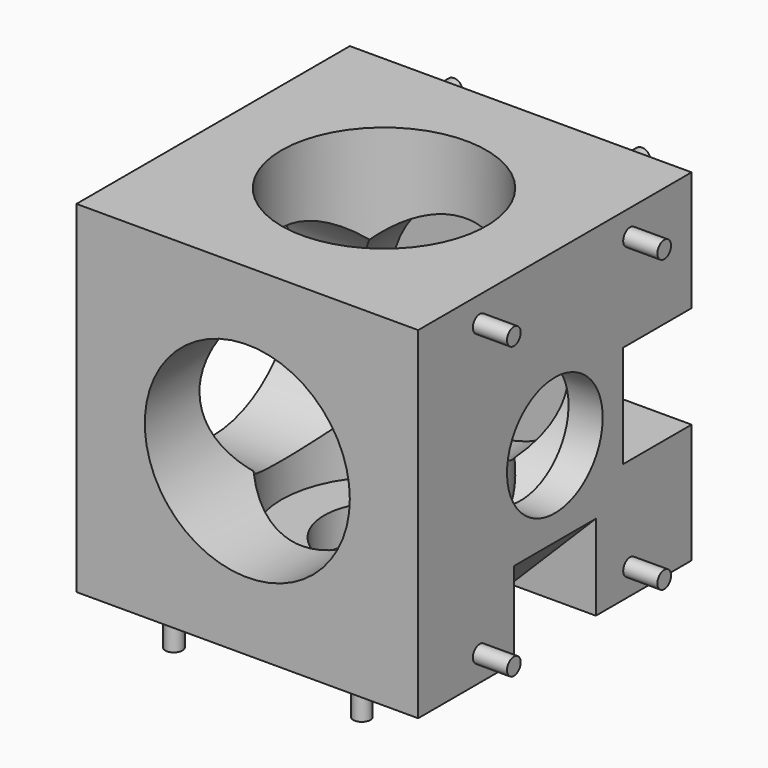
from build123d import *

# Parameters (mm, degrees)
PAD003_DEPTH    = 3
PAD002_DEPTH    = 3
PAD001_DEPTH    = 3
SKETCH_W        = 20
SKETCH_H        = 20
PAD_DEPTH       = 10
SKETCH001_R     = 6
POCKET_DEPTH    = 18
SKETCH003_R     = 6
POCKET001_DEPTH = 18
SKETCH004_R     = 6
POCKET002_DEPTH = 18
SKETCH005_R     = 3.5
POCKET003_DEPTH = 5
SKETCH006_R     = 3.5
POCKET004_DEPTH = 5
SKETCH007_R     = 3.5
POCKET005_DEPTH = 5
SKETCH011_R     = 0.5
PAD004_DEPTH    = 2
SKETCH012_R     = 0.5
PAD005_DEPTH    = 2
SKETCH013_R     = 0.5
PAD006_DEPTH    = 2


with BuildPart() as pad003:
    # Sketch010 → Pad003 (new body, symmetric)
    with BuildSketch(Plane.YZ):
        Polygon((5, -10), (10, -10), (10, -5), align=None)
    extrude(amount=PAD003_DEPTH, both=True)


with BuildPart() as pad002:
    # Sketch009 → Pad002 (new body, symmetric)
    with BuildSketch(Plane.XZ):
        Polygon((5, -10), (10, -10), (10, -5), align=None)
    extrude(amount=PAD002_DEPTH, both=True)


with BuildPart() as pad001:
    # Sketch008 → Pad001 (new body, symmetric)
    with BuildSketch(Plane.XY):
        Polygon((10, 5), (5, 10), (10, 10), align=None)
    extrude(amount=PAD001_DEPTH, both=True)


with BuildPart() as pad006:
    # Sketch → Pad (new body, symmetric)
    with BuildSketch(Plane.XZ):
        Rectangle(SKETCH_W, SKETCH_H)
    extrude(amount=PAD_DEPTH, both=True)

    # Sketch001 → Pocket (cut)
    with BuildSketch(Plane.XZ.offset(10)):
        Circle(SKETCH001_R)
    extrude(amount=-POCKET_DEPTH, mode=Mode.SUBTRACT)

    # Sketch003 → Pocket001 (cut)
    with BuildSketch(Plane(origin=(0, 0, 10), x_dir=(-1, 0, 0), z_dir=(0, 0, 1))):
        Circle(SKETCH003_R)
    extrude(amount=-POCKET001_DEPTH, mode=Mode.SUBTRACT)

    # Sketch004 → Pocket002 (cut)
    with BuildSketch(Plane(origin=(-10, 0, 0), x_dir=(0, 0, -1), z_dir=(-1, 0, 0))):
        Circle(SKETCH004_R)
    extrude(amount=-POCKET002_DEPTH, mode=Mode.SUBTRACT)

    # Sketch005 → Pocket003 (cut)
    with BuildSketch(Plane(origin=(0, 0, -10), x_dir=(1, 0, 0), z_dir=(0, 0, -1))):
        Circle(SKETCH005_R)
    extrude(amount=-POCKET003_DEPTH, mode=Mode.SUBTRACT)

    # Sketch006 → Pocket004 (cut)
    with BuildSketch(Plane(origin=(0, 10, 0), x_dir=(1, 0, 0), z_dir=(0, 1, 0))):
        Circle(SKETCH006_R)
    extrude(amount=-POCKET004_DEPTH, mode=Mode.SUBTRACT)

    # Sketch007 → Pocket005 (cut)
    with BuildSketch(Plane(origin=(10, 0, 0), x_dir=(0, 0, 1), z_dir=(1, 0, 0))):
        Circle(SKETCH007_R)
    extrude(amount=-POCKET005_DEPTH, mode=Mode.SUBTRACT)

    # Cut: cut Pad001
    add(pad001.part, mode=Mode.SUBTRACT)

    # Cut001: cut Pad002
    add(pad002.part, mode=Mode.SUBTRACT)

    # Cut002: cut Pad003
    add(pad003.part, mode=Mode.SUBTRACT)

    # Sketch011 → Pad004 (new body)
    with BuildSketch(Plane.YZ.offset(10)):
        with Locations((-5.5, 8.5)):
            Circle(SKETCH011_R)
        with Locations((5.5, 8.5)):
            Circle(SKETCH011_R)
        with Locations((-5.5, -8.5)):
            Circle(SKETCH011_R)
        with Locations((5.5, -8.5)):
            Circle(SKETCH011_R)
    extrude(amount=PAD004_DEPTH)

    # Sketch012 → Pad005 (new body)
    with BuildSketch(Plane(origin=(0, 10, 0), x_dir=(-1, 0, 0), z_dir=(0, 1, 0))):
        with Locations((-5.5, 8.5)):
            Circle(SKETCH012_R)
        with Locations((5.5, 8.5)):
            Circle(SKETCH012_R)
        with Locations((5.5, -8.5)):
            Circle(SKETCH012_R)
        with Locations((-5.5, -8.5)):
            Circle(SKETCH012_R)
    extrude(amount=PAD005_DEPTH)

    # Sketch013 → Pad006 (new body)
    with BuildSketch(Plane(origin=(0, 0, -10), x_dir=(1, 0, 0), z_dir=(0, 0, -1))):
        with Locations((-5.5, 8.5)):
            Circle(SKETCH013_R)
        with Locations((5.5, 8.5)):
            Circle(SKETCH013_R)
        with Locations((-5.5, -8.5)):
            Circle(SKETCH013_R)
        with Locations((5.5, -8.5)):
            Circle(SKETCH013_R)
    extrude(amount=PAD006_DEPTH)


solid = pad006.part
